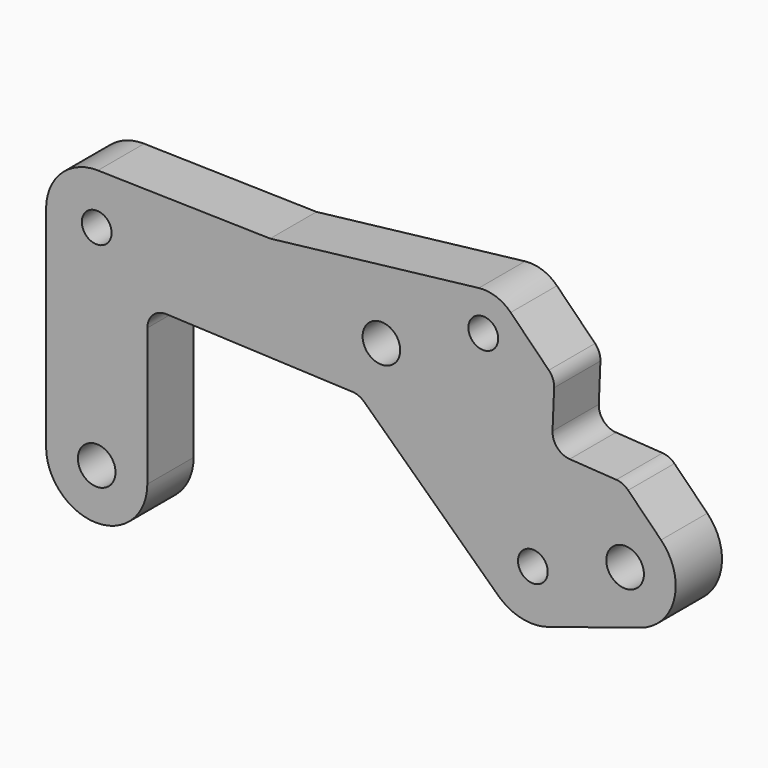
from build123d import *

# Parameters (mm, degrees)
F0_R     = 5.1005
F0_R_2   = 6.5
F1_DEPTH = 20
F2_D     = 10.3


with BuildPart() as f1:
    # F0 (on Front) → F1 (new body)
    with BuildSketch(Plane.XZ):
        with BuildLine():
            Line((132.0809580877, 96.9349452117), (59.9574545853, 88.5310254399))
            Line((59.9574545853, 88.5310254399), (0.403471028, 89.9043482712))
            ThreePointArc((0.403471028, 89.9043482712), (-12.2308693915, 84.9251968815), (-17.4999740584, 72.4090056714))
            Line((-17.4999740584, 72.4090056714), (-17.5, 6.2696e-06))
            ThreePointArc((-17.5, 6.2696e-06), (3.1348e-06, 17.5), (17.5, 0))
            Line((17.5, 0), (17.5, 47.5265261404))
            ThreePointArc((17.5, 47.5265261404), (19.4559884027, 52.1107558557), (24.1189486874, 53.8708280409))
            Line((24.1189486874, 53.8708280409), (88.3617403031, 51.1474370752))
            ThreePointArc((88.3617403031, 51.1474370752), (90.5675807024, 50.6510338552), (92.4596635684, 49.413225125))
            Line((92.4596635684, 49.413225125), (138.7346251007, 5.5796266896))
            ThreePointArc((138.7346251007, 5.5796266896), (146.8608269295, 1.2266463698), (156.0716232804, 1.6072043922))
            Line((156.0716232804, 1.6072043922), (187.9543001925, 11.7437931539))
            ThreePointArc((187.9543001925, 11.7437931539), (199.6483249179, 24.2529089432), (195.0687006595, 40.7530675413))
            Line((195.0687006595, 40.7530675413), (183.7093997167, 52.1905103823))
            ThreePointArc((183.7093997167, 52.1905103823), (181.8306247091, 53.4970499424), (179.6107075775, 54.0527558716))
            Line((179.6107075775, 54.0527558716), (163.5014087271, 55.0868914458))
            ThreePointArc((163.5014087271, 55.0868914458), (159.1874857427, 57.1768169649), (157.5636604631, 61.6869069477))
            Line((157.5636604631, 61.6869069477), (158.1186069427, 75.0712822585))
            ThreePointArc((158.1186069427, 75.0712822585), (157.6937258828, 77.6321739679), (156.2795508179, 79.8090522713))
            Line((156.2795508179, 79.8090522713), (143.0965898897, 93.0827002582))
            ThreePointArc((143.0965898897, 93.0827002582), (138.032061278, 96.2764185447), (132.0809580877, 96.9349452117))
        make_face()
        with Locations((150.7693115845, 18.2845989932)):
            Circle(F0_R, mode=Mode.SUBTRACT)
        with Locations((182.6520242019, 28.4211886504)):
            Circle(F0_R_2, mode=Mode.SUBTRACT)
        with Locations((0, 72.409)):
            Circle(F0_R, mode=Mode.SUBTRACT)
        with Locations((98.4068690139, 69.1740594433)):
            Circle(F0_R_2, mode=Mode.SUBTRACT)
        with BuildLine():
            ThreePointArc((128.5433202763, 83.2480872642), (133.4113540709, 88.7725695723), (138.7262896457, 83.6765792236))
            ThreePointArc((138.7262896457, 83.6765792236), (133.8402252205, 78.5805888749), (128.5433202763, 83.2480872642))
        make_face(mode=Mode.SUBTRACT)
        with BuildLine():
            ThreePointArc((17.5, 0), (3.1348e-06, 17.5), (-17.5, 6.2696e-06))
            ThreePointArc((-17.5, 6.2696e-06), (-3.1348e-06, -17.5), (17.5, 0))
        make_face()
        Circle(F0_R_2, mode=Mode.SUBTRACT)
        with BuildLine():
            ThreePointArc((128.5433202763, 83.2480872642), (133.8402252205, 78.5805888749), (138.7262896457, 83.6765792236))
            ThreePointArc((138.7262896457, 83.6765792236), (133.4113540709, 88.7725695723), (128.5433202763, 83.2480872642))
        make_face()
        with Locations((150.7693115845, 18.2845989932)):
            Circle(F0_R)
        with Locations((0, 72.409)):
            Circle(F0_R)
    extrude(amount=F1_DEPTH)

    # F2 (through all)
    with Locations(Plane(origin=(0, 0, 0), x_dir=(1, 0, 0), z_dir=(0, 1, 0))):
        with Locations((2.59416e-05, -72.4089994018), (150.7693115845, -18.2845989932), (133.6258313783, -83.676647036)):
            Hole(F2_D / 2)


solid = f1.part
